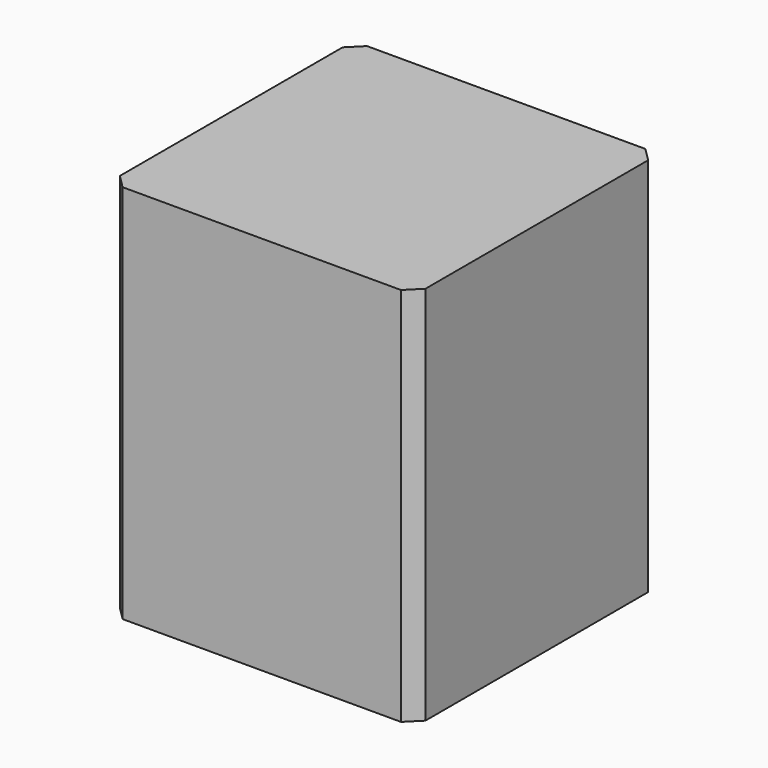
from build123d import *

# Parameters (mm, degrees)
F0_W          = 45
F0_H          = 45
F1_DEPTH      = 52
F1_DEPTH_BACK = 4
F2_SIZE       = 2


with BuildPart() as f1:
    # F0 (on Top) → F1 (new body, two sides)
    with BuildSketch(Plane.XY) as f1_sk:
        Rectangle(F0_W, F0_H)
    extrude(amount=-F1_DEPTH)
    extrude(f1_sk.sketch, amount=F1_DEPTH_BACK)

    # F2
    f2_edges = [f1.edges().sort_by_distance(p)[0] for p in [
        (-22.5, 22.5, -24),
        (22.5, 22.5, -24),
        (22.5, -22.5, -24),
        (-22.5, -22.5, -24),
    ]]
    chamfer(f2_edges, length=F2_SIZE)


solid = f1.part
